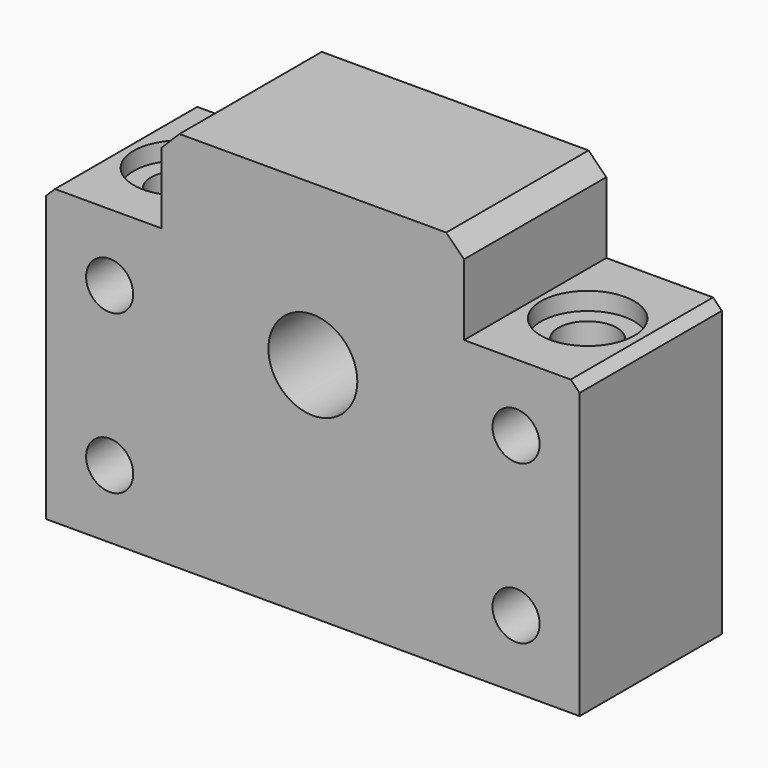
from build123d import *

# Parameters (mm, degrees)
F0_R     = 2.65
F0_R_2   = 5
F1_DEPTH = 10
F2_SIZE  = 1
F3_SIZE  = 2
F4_R     = 3.3
F5_DEPTH = 33
F4_R_2   = 5.25
F6_DEPTH = 2


with BuildPart() as f1:
    # F0 (on Front) → F1 (new body, symmetric)
    with BuildSketch(Plane.XZ):
        Polygon((17, 18), (0, 18), (-17, 18), (-17, 8), (-30, 8), (-30, -25), (0, -25), (30, -25), (30, 8), (17, 8), align=None)
        with Locations((-22.85, -17.35)):
            Circle(F0_R, mode=Mode.SUBTRACT)
        with Locations((22.85, -17.35)):
            Circle(F0_R, mode=Mode.SUBTRACT)
        with Locations((-22.85, 0.45)):
            Circle(F0_R, mode=Mode.SUBTRACT)
        Circle(F0_R_2, mode=Mode.SUBTRACT)
        with Locations((22.85, 0.45)):
            Circle(F0_R, mode=Mode.SUBTRACT)
    extrude(amount=F1_DEPTH, both=True)

    # F2
    f2_edges = [f1.edges().sort_by_distance(p)[0] for p in [
        (30, 0, 8),
        (-30, 0, 8),
    ]]
    chamfer(f2_edges, length=F2_SIZE)

    # F3
    f3_edges = [f1.edges().sort_by_distance(p)[0] for p in [
        (17, 0, 18),
        (-17, 0, 18),
    ]]
    chamfer(f3_edges, length=F3_SIZE)

    # F4 (on face) → F5 (cut, through all)
    with BuildSketch(Plane.XY.offset(8)):
        with Locations((-22.9, 0)):
            Circle(F4_R)
        with Locations((22.9, 0)):
            Circle(F4_R)
    extrude(amount=-F5_DEPTH, mode=Mode.SUBTRACT)

    # F4 (on face) → F6 (cut)
    with BuildSketch(Plane.XY.offset(8)):
        with Locations((22.9, 0)):
            Circle(F4_R_2)
        with Locations((22.9, 0)):
            Circle(F4_R, mode=Mode.SUBTRACT)
        with Locations((-22.9, 0)):
            Circle(F4_R_2)
        with Locations((-22.9, 0)):
            Circle(F4_R, mode=Mode.SUBTRACT)
    extrude(amount=-F6_DEPTH, mode=Mode.SUBTRACT)


solid = f1.part
